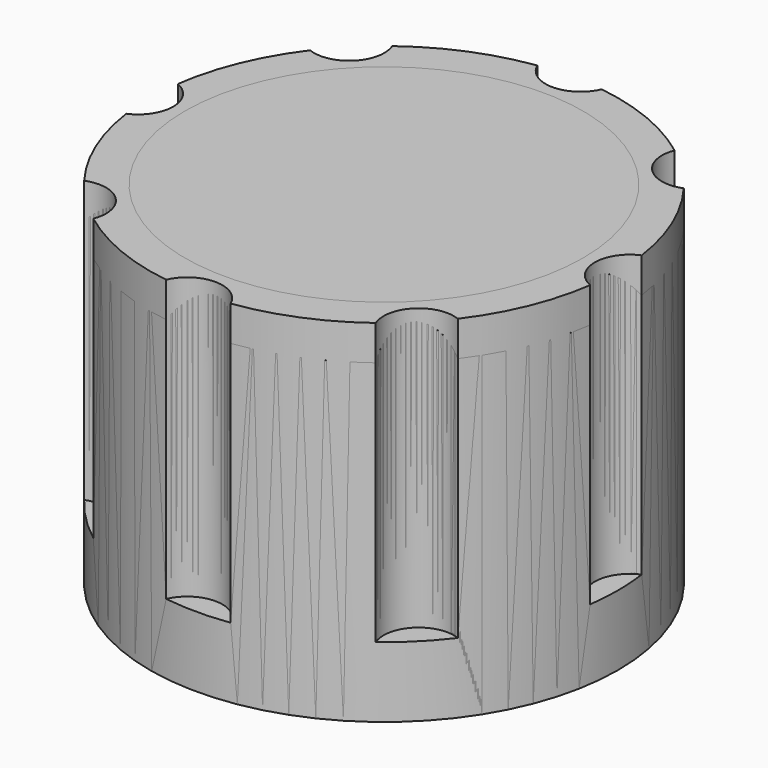
from build123d import *

# Parameters (mm, degrees)
CYLINDER001_R     = 1.5
CYLINDER001_DEPTH = 19
ARRAY_COUNT       = 8
CYLINDER_R        = 10
CYLINDER_DEPTH    = 15
CYLINDER002_R     = 1.5
CYLINDER002_DEPTH = 19
ARRAY001_COUNT    = 8
CYLINDER003_R     = 10
CYLINDER003_DEPTH = 15
CHAMFER_SIZE      = 1.5


with BuildPart() as obj1:
    # Cylinder001 → Cylinder001 (new body)
    with BuildSketch(Plane(origin=(10.5, 0, 3), x_dir=(1, 0, 0), z_dir=(0, 0, 1))):
        Circle(CYLINDER001_R)
    extrude(amount=CYLINDER001_DEPTH)

    # Array: obj1 ×8 about axis
    array_axis = Axis((0, 0, 0), (0, 0, 1))


with BuildPart() as obj1_1:
    add(obj1.part)
    for i in range(1, ARRAY_COUNT):
        add(obj1.part.rotate(array_axis, i * 360 / ARRAY_COUNT))


with BuildPart() as selector:
    # Cylinder → Cylinder (new body)
    with BuildSketch(Plane.XY):
        Circle(CYLINDER_R)
    extrude(amount=CYLINDER_DEPTH)

    # Cut: cut obj1
    add(obj1_1.part, mode=Mode.SUBTRACT)


with BuildPart() as obj2:
    # Cylinder002 → Cylinder002 (new body)
    with BuildSketch(Plane(origin=(10.5, 0, 3), x_dir=(1, 0, 0), z_dir=(0, 0, 1))):
        Circle(CYLINDER002_R)
    extrude(amount=CYLINDER002_DEPTH)

    # Array001: obj2 ×8 about axis
    array001_axis = Axis((0, 0, 0), (0, 0, 1))


with BuildPart() as obj2_1:
    add(obj2.part)
    for i in range(1, ARRAY001_COUNT):
        add(obj2.part.rotate(array001_axis, i * 360 / ARRAY001_COUNT))


with BuildPart() as selector_nuevo:
    # Cylinder003 → Cylinder003 (new body)
    with BuildSketch(Plane.XY):
        Circle(CYLINDER003_R)
    extrude(amount=CYLINDER003_DEPTH)

    # Chamfer
    chamfer_edges = [selector_nuevo.edges().sort_by_distance(p)[0] for p in [
        (-10, 0, 15),
    ]]
    chamfer(chamfer_edges, length=CHAMFER_SIZE)

    # Cut001: cut obj2
    add(obj2_1.part, mode=Mode.SUBTRACT)


solid = Compound([selector.part, selector_nuevo.part])
